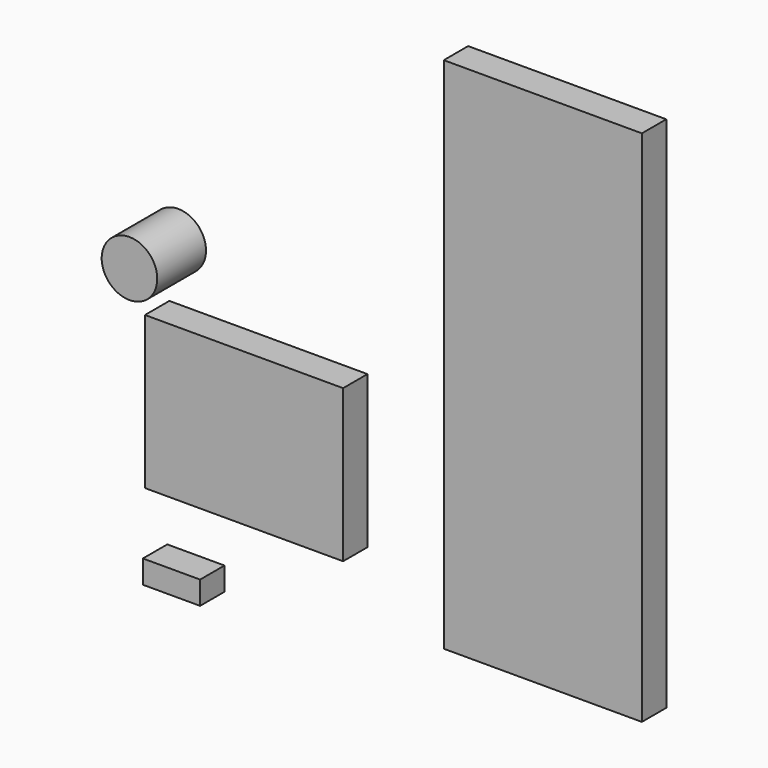
from build123d import *

# Parameters (mm, degrees)
F0_W     = 65
F0_H     = 50
F1_DEPTH = 5
F2_W     = 65
F2_H     = 170
F3_DEPTH = 5
F4_R     = 9.112465
F5_DEPTH = 20
F6_W     = 18.764562
F6_H     = 7.595181
F7_DEPTH = 5


with BuildPart() as f1:
    # F0 (on Front) → F1 (new body, symmetric)
    with BuildSketch(Plane.XZ):
        Rectangle(F0_W, F0_H)
    extrude(amount=F1_DEPTH, both=True)


with BuildPart() as f3:
    # F2 (on Front) → F3 (new body, symmetric)
    with BuildSketch(Plane.XZ):
        with Locations((98.028367, 45.478269)):
            Rectangle(F2_W, F2_H)
        with Locations((98.028367, 45.478269)):
            Rectangle(F2_W, F2_H)
    extrude(amount=F3_DEPTH, both=True)


with BuildPart() as f5:
    # F4 (on Front) → F5 (new body)
    with BuildSketch(Plane.XZ):
        with Locations((-25.589339, 46.755835)):
            Circle(F4_R)
    extrude(amount=F5_DEPTH)


with BuildPart() as f7:
    # F6 (on Front) → F7 (new body, symmetric)
    with BuildSketch(Plane.XZ):
        with Locations((-23.802137, -49.34603)):
            Rectangle(F6_W, F6_H)
    extrude(amount=F7_DEPTH, both=True)


solid = Compound([f1.part, f3.part, f5.part, f7.part])
